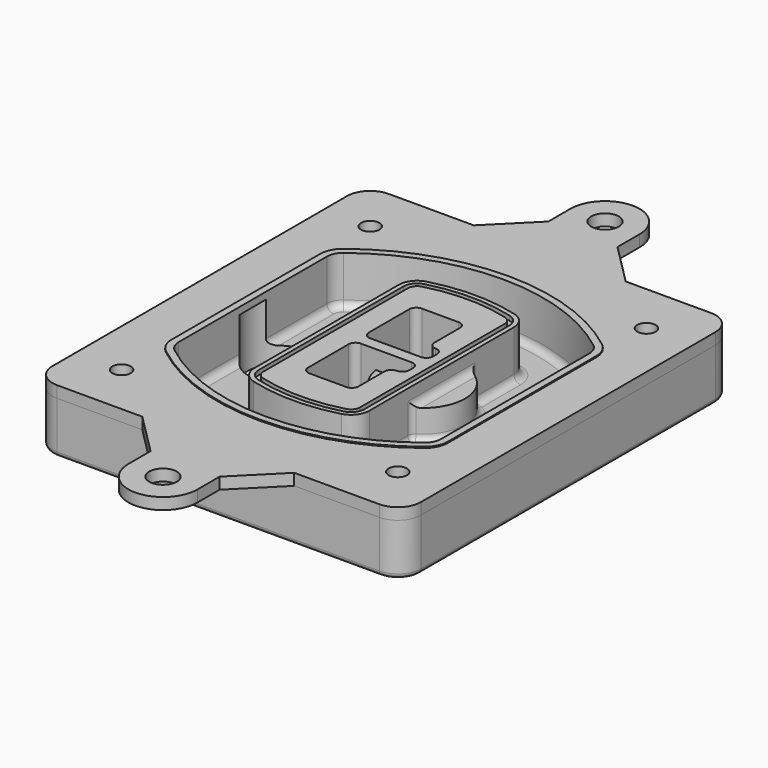
from build123d import *

# Parameters (mm, degrees)
F0_R      = 4
F1_DEPTH  = 25
F2_DEPTH  = 3
F3_DEPTH  = 18
F5_DEPTH  = 21
F6_DEPTH  = 2
F8_DEPTH  = 20
F9_DEPTH  = 16
F10_DEPTH = 25
F7_R      = 6
F7_R_2    = 4
F11_DEPTH = 6
F13_DEPTH = 9
F14_R     = 3
F15_R     = 2
F16_R     = 6
F16_R_2   = 4
F17_DEPTH = 2.5


with BuildPart() as f1:
    # F0 (on Top) → F1 (new body)
    with BuildSketch(Plane.XY):
        with BuildLine():
            ThreePointArc((-80, -80), (-77.0710678119, -87.0710678119), (-70, -90))
            Line((-70, -90), (70, -90))
            ThreePointArc((70, -90), (77.0710678119, -87.0710678119), (80, -80))
            Line((80, -80), (80, 80))
            ThreePointArc((80, 80), (77.0710678119, 87.0710678119), (70, 90))
            Line((70, 90), (-70, 90))
            ThreePointArc((-70, 90), (-77.0710678119, 87.0710678119), (-80, 80))
            Line((-80, 80), (-80, -80))
        make_face()
        with Locations((-60, -67.5)):
            Circle(F0_R, mode=Mode.SUBTRACT)
        with Locations((60, -67.5)):
            Circle(F0_R, mode=Mode.SUBTRACT)
        with Locations((-60, 67.5)):
            Circle(F0_R, mode=Mode.SUBTRACT)
        with BuildLine():
            ThreePointArc((-64, 40.2934422872), (-62.5820384798, 46.4328484224), (-58.6153846154, 51.3286200352))
            ThreePointArc((-58.6153846154, 51.3286200352), (0, 71.5), (58.6153846154, 51.3286200352))
            ThreePointArc((58.6153846154, 51.3286200352), (62.5820384798, 46.4328484224), (64, 40.2934422872))
            Line((64, 40.2934422872), (64, -40.2934422872))
            ThreePointArc((64, -40.2934422872), (62.5820384798, -46.4328484224), (58.6153846154, -51.3286200352))
            ThreePointArc((58.6153846154, -51.3286200352), (0, -71.5), (-58.6153846154, -51.3286200352))
            ThreePointArc((-58.6153846154, -51.3286200352), (-62.5820384798, -46.4328484224), (-64, -40.2934422872))
            Line((-64, -40.2934422872), (-64, 40.2934422872))
        make_face(mode=Mode.SUBTRACT)
        with Locations((60, 67.5)):
            Circle(F0_R, mode=Mode.SUBTRACT)
        with BuildLine():
            ThreePointArc((58.6153846154, 51.3286200352), (0, 71.5), (-58.6153846154, 51.3286200352))
            ThreePointArc((-58.6153846154, 51.3286200352), (-62.5820384798, 46.4328484224), (-64, 40.2934422872))
            Line((-64, 40.2934422872), (-64, -40.2934422872))
            ThreePointArc((-64, -40.2934422872), (-62.5820384798, -46.4328484224), (-58.6153846154, -51.3286200352))
            ThreePointArc((-58.6153846154, -51.3286200352), (0, -71.5), (58.6153846154, -51.3286200352))
            ThreePointArc((58.6153846154, -51.3286200352), (62.5820384798, -46.4328484224), (64, -40.2934422872))
            Line((64, -40.2934422872), (64, 40.2934422872))
            ThreePointArc((64, 40.2934422872), (62.5820384798, 46.4328484224), (58.6153846154, 51.3286200352))
        make_face()
        with BuildLine():
            Line((-60, -40.2934422872), (-60, 40.2934422872))
            ThreePointArc((-60, 40.2934422872), (-58.9871703427, 44.6787323838), (-56.1538461538, 48.1757121072))
            ThreePointArc((-56.1538461538, 48.1757121072), (0, 67.5), (56.1538461538, 48.1757121072))
            ThreePointArc((56.1538461538, 48.1757121072), (58.9871703427, 44.6787323838), (60, 40.2934422872))
            Line((60, 40.2934422872), (60, -40.2934422872))
            ThreePointArc((60, -40.2934422872), (58.9871703427, -44.6787323838), (56.1538461538, -48.1757121072))
            ThreePointArc((56.1538461538, -48.1757121072), (0, -67.5), (-56.1538461538, -48.1757121072))
            ThreePointArc((-56.1538461538, -48.1757121072), (-58.9871703427, -44.6787323838), (-60, -40.2934422872))
        make_face(mode=Mode.SUBTRACT)
        with BuildLine():
            ThreePointArc((-56.1538461538, 48.1757121072), (-58.9871703427, 44.6787323838), (-60, 40.2934422872))
            Line((-60, 40.2934422872), (-60, -40.2934422872))
            ThreePointArc((-60, -40.2934422872), (-58.9871703427, -44.6787323838), (-56.1538461538, -48.1757121072))
            ThreePointArc((-56.1538461538, -48.1757121072), (0, -67.5), (56.1538461538, -48.1757121072))
            ThreePointArc((56.1538461538, -48.1757121072), (58.9871703427, -44.6787323838), (60, -40.2934422872))
            Line((60, -40.2934422872), (60, 40.2934422872))
            ThreePointArc((60, 40.2934422872), (58.9871703427, 44.6787323838), (56.1538461538, 48.1757121072))
            ThreePointArc((56.1538461538, 48.1757121072), (0, 67.5), (-56.1538461538, 48.1757121072))
        make_face()
        with BuildLine():
            ThreePointArc((54.3076923077, 45.8110311612), (56.2910192399, 43.3631453548), (57, 40.2934422872))
            Line((57, 40.2934422872), (57, -40.2934422872))
            ThreePointArc((57, -40.2934422872), (56.2910192399, -43.3631453548), (54.3076923077, -45.8110311612))
            ThreePointArc((54.3076923077, -45.8110311612), (0, -64.5), (-54.3076923077, -45.8110311612))
            ThreePointArc((-54.3076923077, -45.8110311612), (-56.2910192399, -43.3631453548), (-57, -40.2934422872))
            Line((-57, -40.2934422872), (-57, 40.2934422872))
            ThreePointArc((-57, 40.2934422872), (-56.2910192399, 43.3631453548), (-54.3076923077, 45.8110311612))
            ThreePointArc((-54.3076923077, 45.8110311612), (0, 64.5), (54.3076923077, 45.8110311612))
        make_face(mode=Mode.SUBTRACT)
        with BuildLine():
            Line((57, -40.2934422872), (57, 40.2934422872))
            ThreePointArc((57, 40.2934422872), (56.2910192399, 43.3631453548), (54.3076923077, 45.8110311612))
            ThreePointArc((54.3076923077, 45.8110311612), (0, 64.5), (-54.3076923077, 45.8110311612))
            ThreePointArc((-54.3076923077, 45.8110311612), (-56.2910192399, 43.3631453548), (-57, 40.2934422872))
            Line((-57, 40.2934422872), (-57, -40.2934422872))
            ThreePointArc((-57, -40.2934422872), (-56.2910192399, -43.3631453548), (-54.3076923077, -45.8110311612))
            ThreePointArc((-54.3076923077, -45.8110311612), (0, -64.5), (54.3076923077, -45.8110311612))
            ThreePointArc((54.3076923077, -45.8110311612), (56.2910192399, -43.3631453548), (57, -40.2934422872))
        make_face()
    extrude(amount=-F1_DEPTH)

    # F0 (on Top) → F2 (join)
    with BuildSketch(Plane.XY):
        with BuildLine():
            ThreePointArc((-56.1538461538, 48.1757121072), (-58.9871703427, 44.6787323838), (-60, 40.2934422872))
            Line((-60, 40.2934422872), (-60, -40.2934422872))
            ThreePointArc((-60, -40.2934422872), (-58.9871703427, -44.6787323838), (-56.1538461538, -48.1757121072))
            ThreePointArc((-56.1538461538, -48.1757121072), (0, -67.5), (56.1538461538, -48.1757121072))
            ThreePointArc((56.1538461538, -48.1757121072), (58.9871703427, -44.6787323838), (60, -40.2934422872))
            Line((60, -40.2934422872), (60, 40.2934422872))
            ThreePointArc((60, 40.2934422872), (58.9871703427, 44.6787323838), (56.1538461538, 48.1757121072))
            ThreePointArc((56.1538461538, 48.1757121072), (0, 67.5), (-56.1538461538, 48.1757121072))
        make_face()
        with BuildLine():
            ThreePointArc((54.3076923077, 45.8110311612), (56.2910192399, 43.3631453548), (57, 40.2934422872))
            Line((57, 40.2934422872), (57, -40.2934422872))
            ThreePointArc((57, -40.2934422872), (56.2910192399, -43.3631453548), (54.3076923077, -45.8110311612))
            ThreePointArc((54.3076923077, -45.8110311612), (0, -64.5), (-54.3076923077, -45.8110311612))
            ThreePointArc((-54.3076923077, -45.8110311612), (-56.2910192399, -43.3631453548), (-57, -40.2934422872))
            Line((-57, -40.2934422872), (-57, 40.2934422872))
            ThreePointArc((-57, 40.2934422872), (-56.2910192399, 43.3631453548), (-54.3076923077, 45.8110311612))
            ThreePointArc((-54.3076923077, 45.8110311612), (0, 64.5), (54.3076923077, 45.8110311612))
        make_face(mode=Mode.SUBTRACT)
    extrude(amount=F2_DEPTH)

    # F0 (on Top) → F3 (cut)
    with BuildSketch(Plane.XY):
        with BuildLine():
            Line((57, -40.2934422872), (57, 40.2934422872))
            ThreePointArc((57, 40.2934422872), (56.2910192399, 43.3631453548), (54.3076923077, 45.8110311612))
            ThreePointArc((54.3076923077, 45.8110311612), (0, 64.5), (-54.3076923077, 45.8110311612))
            ThreePointArc((-54.3076923077, 45.8110311612), (-56.2910192399, 43.3631453548), (-57, 40.2934422872))
            Line((-57, 40.2934422872), (-57, -40.2934422872))
            ThreePointArc((-57, -40.2934422872), (-56.2910192399, -43.3631453548), (-54.3076923077, -45.8110311612))
            ThreePointArc((-54.3076923077, -45.8110311612), (0, -64.5), (54.3076923077, -45.8110311612))
            ThreePointArc((54.3076923077, -45.8110311612), (56.2910192399, -43.3631453548), (57, -40.2934422872))
        make_face()
    extrude(amount=-F3_DEPTH, mode=Mode.SUBTRACT)

    # F4 (on face) → F5 (join, through all)
    with BuildSketch(Plane.XY.offset(3)):
        with BuildLine():
            ThreePointArc((-25, -39.2465276821), (-23.3511545998, -44.1109737193), (-19.0842911877, -46.9702398883))
            ThreePointArc((-19.0842911877, -46.9702398883), (0, -49.5), (19.0842911877, -46.9702398883))
            ThreePointArc((19.0842911877, -46.9702398883), (23.3511545998, -44.1109737193), (25, -39.2465276821))
            Line((25, -39.2465276821), (25, 39.2465276821))
            ThreePointArc((25, 39.2465276821), (23.3511545998, 44.1109737193), (19.0842911877, 46.9702398883))
            ThreePointArc((19.0842911877, 46.9702398883), (0, 49.5), (-19.0842911877, 46.9702398883))
            ThreePointArc((-19.0842911877, 46.9702398883), (-23.3511545998, 44.1109737193), (-25, 39.2465276821))
            Line((-25, 39.2465276821), (-25, -39.2465276821))
        make_face()
        with BuildLine():
            ThreePointArc((18.5632183908, 45.0393118368), (21.7633659499, 42.89486221), (23, 39.2465276821))
            Line((23, 39.2465276821), (23, -39.2465276821))
            ThreePointArc((23, -39.2465276821), (21.7633659499, -42.89486221), (18.5632183908, -45.0393118368))
            ThreePointArc((18.5632183908, -45.0393118368), (0, -47.5), (-18.5632183908, -45.0393118368))
            ThreePointArc((-18.5632183908, -45.0393118368), (-21.7633659499, -42.89486221), (-23, -39.2465276821))
            Line((-23, -39.2465276821), (-23, 39.2465276821))
            ThreePointArc((-23, 39.2465276821), (-21.7633659499, 42.89486221), (-18.5632183908, 45.0393118368))
            ThreePointArc((-18.5632183908, 45.0393118368), (0, 47.5), (18.5632183908, 45.0393118368))
        make_face(mode=Mode.SUBTRACT)
        with BuildLine():
            Line((23, -39.2465276821), (23, 39.2465276821))
            ThreePointArc((23, 39.2465276821), (21.7633659499, 42.89486221), (18.5632183908, 45.0393118368))
            ThreePointArc((18.5632183908, 45.0393118368), (0, 47.5), (-18.5632183908, 45.0393118368))
            ThreePointArc((-18.5632183908, 45.0393118368), (-21.7633659499, 42.89486221), (-23, 39.2465276821))
            Line((-23, 39.2465276821), (-23, -39.2465276821))
            ThreePointArc((-23, -39.2465276821), (-21.7633659499, -42.89486221), (-18.5632183908, -45.0393118368))
            ThreePointArc((-18.5632183908, -45.0393118368), (0, -47.5), (18.5632183908, -45.0393118368))
            ThreePointArc((18.5632183908, -45.0393118368), (21.7633659499, -42.89486221), (23, -39.2465276821))
        make_face()
        with BuildLine():
            ThreePointArc((18.0421455939, 43.1083837852), (20.1755772999, 41.6787507007), (21, 39.2465276821))
            Line((21, 39.2465276821), (21, -39.2465276821))
            ThreePointArc((21, -39.2465276821), (20.1755772999, -41.6787507007), (18.0421455939, -43.1083837852))
            ThreePointArc((18.0421455939, -43.1083837852), (0, -45.5), (-18.0421455939, -43.1083837852))
            ThreePointArc((-18.0421455939, -43.1083837852), (-20.1755772999, -41.6787507007), (-21, -39.2465276821))
            Line((-21, -39.2465276821), (-21, 39.2465276821))
            ThreePointArc((-21, 39.2465276821), (-20.1755772999, 41.6787507007), (-18.0421455939, 43.1083837852))
            ThreePointArc((-18.0421455939, 43.1083837852), (0, 45.5), (18.0421455939, 43.1083837852))
        make_face(mode=Mode.SUBTRACT)
        with BuildLine():
            Line((21, -39.2465276821), (21, 39.2465276821))
            ThreePointArc((21, 39.2465276821), (20.1755772999, 41.6787507007), (18.0421455939, 43.1083837852))
            ThreePointArc((18.0421455939, 43.1083837852), (0, 45.5), (-18.0421455939, 43.1083837852))
            ThreePointArc((-18.0421455939, 43.1083837852), (-20.1755772999, 41.6787507007), (-21, 39.2465276821))
            Line((-21, 39.2465276821), (-21, -39.2465276821))
            ThreePointArc((-21, -39.2465276821), (-20.1755772999, -41.6787507007), (-18.0421455939, -43.1083837852))
            ThreePointArc((-18.0421455939, -43.1083837852), (0, -45.5), (18.0421455939, -43.1083837852))
            ThreePointArc((18.0421455939, -43.1083837852), (20.1755772999, -41.6787507007), (21, -39.2465276821))
        make_face()
        with BuildLine():
            Line((-8, -2.5), (14, -2.5))
            ThreePointArc((14, -2.5), (16.1213203436, -3.3786796564), (17, -5.5))
            Line((17, -5.5), (17, -7.5))
            ThreePointArc((17, -7.5), (16.1213203436, -9.6213203436), (14, -10.5))
            ThreePointArc((14, -10.5), (11.8786796564, -11.3786796564), (11, -13.5))
            Line((11, -13.5), (11, -27.5))
            ThreePointArc((11, -27.5), (10.1213203436, -29.6213203436), (8, -30.5))
            Line((8, -30.5), (-8, -30.5))
            ThreePointArc((-8, -30.5), (-10.1213203436, -29.6213203436), (-11, -27.5))
            Line((-11, -27.5), (-11, -5.5))
            ThreePointArc((-11, -5.5), (-10.1213203436, -3.3786796564), (-8, -2.5))
        make_face(mode=Mode.SUBTRACT)
        with BuildLine():
            ThreePointArc((-8, 2.5), (-10.1213203436, 3.3786796564), (-11, 5.5))
            Line((-11, 5.5), (-11, 27.5))
            ThreePointArc((-11, 27.5), (-10.1213203436, 29.6213203436), (-8, 30.5))
            Line((-8, 30.5), (8, 30.5))
            ThreePointArc((8, 30.5), (10.1213203436, 29.6213203436), (11, 27.5))
            Line((11, 27.5), (11, 13.5))
            ThreePointArc((11, 13.5), (11.8786796564, 11.3786796564), (14, 10.5))
            ThreePointArc((14, 10.5), (16.1213203436, 9.6213203436), (17, 7.5))
            Line((17, 7.5), (17, 5.5))
            ThreePointArc((17, 5.5), (16.1213203436, 3.3786796564), (14, 2.5))
            Line((14, 2.5), (-8, 2.5))
        make_face(mode=Mode.SUBTRACT)
    extrude(amount=-F5_DEPTH)

    # F4 (on face) → F6 (cut)
    with BuildSketch(Plane.XY.offset(3)):
        with BuildLine():
            Line((23, -39.2465276821), (23, 39.2465276821))
            ThreePointArc((23, 39.2465276821), (21.7633659499, 42.89486221), (18.5632183908, 45.0393118368))
            ThreePointArc((18.5632183908, 45.0393118368), (0, 47.5), (-18.5632183908, 45.0393118368))
            ThreePointArc((-18.5632183908, 45.0393118368), (-21.7633659499, 42.89486221), (-23, 39.2465276821))
            Line((-23, 39.2465276821), (-23, -39.2465276821))
            ThreePointArc((-23, -39.2465276821), (-21.7633659499, -42.89486221), (-18.5632183908, -45.0393118368))
            ThreePointArc((-18.5632183908, -45.0393118368), (0, -47.5), (18.5632183908, -45.0393118368))
            ThreePointArc((18.5632183908, -45.0393118368), (21.7633659499, -42.89486221), (23, -39.2465276821))
        make_face()
        with BuildLine():
            ThreePointArc((18.0421455939, 43.1083837852), (20.1755772999, 41.6787507007), (21, 39.2465276821))
            Line((21, 39.2465276821), (21, -39.2465276821))
            ThreePointArc((21, -39.2465276821), (20.1755772999, -41.6787507007), (18.0421455939, -43.1083837852))
            ThreePointArc((18.0421455939, -43.1083837852), (0, -45.5), (-18.0421455939, -43.1083837852))
            ThreePointArc((-18.0421455939, -43.1083837852), (-20.1755772999, -41.6787507007), (-21, -39.2465276821))
            Line((-21, -39.2465276821), (-21, 39.2465276821))
            ThreePointArc((-21, 39.2465276821), (-20.1755772999, 41.6787507007), (-18.0421455939, 43.1083837852))
            ThreePointArc((-18.0421455939, 43.1083837852), (0, 45.5), (18.0421455939, 43.1083837852))
        make_face(mode=Mode.SUBTRACT)
    extrude(amount=-F6_DEPTH, mode=Mode.SUBTRACT)

    # F7 (on face) → F8 (join)
    with BuildSketch(Plane(origin=(0, 0, -25), x_dir=(1, 0, 0), z_dir=(0, 0, -1))):
        with BuildLine():
            ThreePointArc((3.28842436, 0), (16.7567035675, 13.4682792075), (30.224982775, 0))
            Line((30.224982775, 0), (35.224982775, 0))
            ThreePointArc((35.224982775, 0), (16.7567035675, 18.4682792075), (-1.71157564, 0))
            Line((-1.71157564, 0), (3.28842436, 0))
        make_face()
        with BuildLine():
            Line((3.28842436, 0), (30.224982775, 0))
            ThreePointArc((30.224982775, 0), (16.7567035675, 13.4682792075), (3.28842436, 0))
        make_face()
        with BuildLine():
            ThreePointArc((3.28842436, 0), (16.7567035675, -13.4682792075), (30.224982775, 0))
            Line((30.224982775, 0), (3.28842436, 0))
        make_face()
        with BuildLine():
            Line((35.224982775, 0), (30.224982775, 0))
            ThreePointArc((30.224982775, 0), (16.7567035675, -13.4682792075), (3.28842436, 0))
            Line((3.28842436, 0), (-1.71157564, 0))
            ThreePointArc((-1.71157564, 0), (16.7567035675, -18.4682792075), (35.224982775, 0))
        make_face()
    extrude(amount=-F8_DEPTH)

    # F7 (on face) → F9 (cut)
    with BuildSketch(Plane(origin=(0, 0, -25), x_dir=(1, 0, 0), z_dir=(0, 0, -1))):
        with BuildLine():
            Line((3.28842436, 0), (30.224982775, 0))
            ThreePointArc((30.224982775, 0), (16.7567035675, 13.4682792075), (3.28842436, 0))
        make_face()
        with BuildLine():
            ThreePointArc((3.28842436, 0), (16.7567035675, -13.4682792075), (30.224982775, 0))
            Line((30.224982775, 0), (3.28842436, 0))
        make_face()
    extrude(amount=-F9_DEPTH, mode=Mode.SUBTRACT)

    # F7 (on face) → F10 (cut)
    with BuildSketch(Plane(origin=(0, 0, -25), x_dir=(1, 0, 0), z_dir=(0, 0, -1))):
        with BuildLine():
            Line((-59.0318229325, 0), (-32.0952645175, 0))
            ThreePointArc((-32.0952645175, 0), (-45.563543725, 13.4682792075), (-59.0318229325, 0))
        make_face()
        with BuildLine():
            ThreePointArc((-59.0318229325, 0), (-45.563543725, -13.4682792075), (-32.0952645175, 0))
            Line((-32.0952645175, 0), (-59.0318229325, 0))
        make_face()
    extrude(amount=-F10_DEPTH, mode=Mode.SUBTRACT)

    # F7 (on face) → F11 (cut)
    with BuildSketch(Plane(origin=(0, 0, -25), x_dir=(1, 0, 0), z_dir=(0, 0, -1))):
        with Locations((60, -67.5)):
            Circle(F7_R)
        with Locations((60, -67.5)):
            Circle(F7_R_2, mode=Mode.SUBTRACT)
        with Locations((60, -67.5)):
            Circle(F7_R)
        with Locations((60, -67.5)):
            Circle(F7_R_2, mode=Mode.SUBTRACT)
        with Locations((-60, -67.5)):
            Circle(F7_R)
        with Locations((-60, -67.5)):
            Circle(F7_R_2, mode=Mode.SUBTRACT)
        with Locations((-60, -67.5)):
            Circle(F7_R)
        with Locations((-60, -67.5)):
            Circle(F7_R_2, mode=Mode.SUBTRACT)
        with Locations((-60, 67.5)):
            Circle(F7_R)
        with Locations((-60, 67.5)):
            Circle(F7_R_2, mode=Mode.SUBTRACT)
        with Locations((-60, 67.5)):
            Circle(F7_R)
        with Locations((-60, 67.5)):
            Circle(F7_R_2, mode=Mode.SUBTRACT)
        with Locations((60, 67.5)):
            Circle(F7_R)
        with Locations((60, 67.5)):
            Circle(F7_R_2, mode=Mode.SUBTRACT)
        with Locations((60, 67.5)):
            Circle(F7_R)
        with Locations((60, 67.5)):
            Circle(F7_R_2, mode=Mode.SUBTRACT)
    extrude(amount=-F11_DEPTH, mode=Mode.SUBTRACT)

    # F12 (on face) → F13 (cut, through all)
    with BuildSketch(Plane(origin=(0, 0, -9), x_dir=(1, 0, 0), z_dir=(0, 0, -1))):
        with BuildLine():
            Line((11, 13.5), (11, 17.5481537753))
            ThreePointArc((11, 17.5481537753), (2.5696536419, 11.8239143813), (-1.5415842455, 2.5))
            Line((-1.5415842455, 2.5), (3.5224848595, 2.5))
            ThreePointArc((3.5224848595, 2.5), (6.1857188154, 8.3455872281), (11.2536447004, 12.2927168648))
            ThreePointArc((11.2536447004, 12.2927168648), (11.0640958889, 12.8831798879), (11, 13.5))
        make_face()
        with BuildLine():
            ThreePointArc((11.2536447004, -12.2927168648), (6.1857188154, -8.3455872281), (3.5224848595, -2.5))
            Line((3.5224848595, -2.5), (-1.5415842455, -2.5))
            ThreePointArc((-1.5415842455, -2.5), (2.5696536419, -11.8239143813), (11, -17.5481537753))
            Line((11, -17.5481537753), (11, -13.5))
            ThreePointArc((11, -13.5), (11.0640958889, -12.8831798879), (11.2536447004, -12.2927168648))
        make_face()
        with BuildLine():
            ThreePointArc((11.2536447004, 12.2927168648), (6.1857188154, 8.3455872281), (3.5224848595, 2.5))
            Line((3.5224848595, 2.5), (14, 2.5))
            ThreePointArc((14, 2.5), (16.1213203436, 3.3786796564), (17, 5.5))
            Line((17, 5.5), (17, 7.5))
            ThreePointArc((17, 7.5), (16.1213203436, 9.6213203436), (14, 10.5))
            ThreePointArc((14, 10.5), (12.3601599782, 10.9878446101), (11.2536447004, 12.2927168648))
        make_face()
        with BuildLine():
            Line((14, -2.5), (3.5224848595, -2.5))
            ThreePointArc((3.5224848595, -2.5), (6.1857188154, -8.3455872281), (11.2536447004, -12.2927168648))
            ThreePointArc((11.2536447004, -12.2927168648), (12.3601599782, -10.9878446101), (14, -10.5))
            ThreePointArc((14, -10.5), (16.1213203436, -9.6213203436), (17, -7.5))
            Line((17, -7.5), (17, -5.5))
            ThreePointArc((17, -5.5), (16.1213203436, -3.3786796564), (14, -2.5))
        make_face()
    extrude(amount=F13_DEPTH, mode=Mode.SUBTRACT)

    # F14
    f14_edges = [f1.edges().sort_by_distance(p)[0] for p in [
        (-57, -23.703476, -18),
        (-57, 23.703476, -18),
        (25, 0, -5),
        (25, 16.526506, -11.5),
        (25, -16.526506, -11.5),
        (25, -27.886517, -18),
        (35.224983, 0, -18),
    ]]
    fillet(f14_edges, radius=F14_R)

    # F15
    f15_edges = [f1.edges().sort_by_distance(p)[0] for p in [
        (0, -90, -25),
    ]]
    fillet(f15_edges, radius=F15_R)


with BuildPart() as f17:
    # F16 (on face) → F17 (new body, symmetric)
    with BuildSketch(Plane.XY):
        with BuildLine():
            Line((15, 108), (15, 120))
            ThreePointArc((15, 120), (0, 135), (-15, 120))
            Line((-15, 120), (-15, 108))
            Line((-15, 108), (-33, 90))
            Line((-33, 90), (33, 90))
            Line((33, 90), (15, 108))
        make_face()
        with Locations((0, 120)):
            Circle(F16_R, mode=Mode.SUBTRACT)
        with BuildLine():
            Line((70, 90), (33, 90))
            Line((33, 90), (-33, 90))
            Line((-33, 90), (-70, 90))
            ThreePointArc((-70, 90), (-77.0710678119, 87.0710678119), (-80, 80))
            Line((-80, 80), (-80, -80))
            ThreePointArc((-80, -80), (-77.0710678119, -87.0710678119), (-70, -90))
            Line((-70, -90), (-33, -90))
            Line((-33, -90), (33, -90))
            Line((33, -90), (70, -90))
            ThreePointArc((70, -90), (77.0710678119, -87.0710678119), (80, -80))
            Line((80, -80), (80, 80))
            ThreePointArc((80, 80), (77.0710678119, 87.0710678119), (70, 90))
        make_face()
        with Locations((-60, -67.5)):
            Circle(F16_R_2, mode=Mode.SUBTRACT)
        with Locations((60, -67.5)):
            Circle(F16_R_2, mode=Mode.SUBTRACT)
        with Locations((-60, 67.5)):
            Circle(F16_R_2, mode=Mode.SUBTRACT)
        with BuildLine():
            ThreePointArc((-60, 40.2934422872), (-58.9871703427, 44.6787323838), (-56.1538461538, 48.1757121072))
            ThreePointArc((-56.1538461538, 48.1757121072), (0, 67.5), (56.1538461538, 48.1757121072))
            ThreePointArc((56.1538461538, 48.1757121072), (58.9871703427, 44.6787323838), (60, 40.2934422872))
            Line((60, 40.2934422872), (60, -40.2934422872))
            ThreePointArc((60, -40.2934422872), (58.9871703427, -44.6787323838), (56.1538461538, -48.1757121072))
            ThreePointArc((56.1538461538, -48.1757121072), (0, -67.5), (-56.1538461538, -48.1757121072))
            ThreePointArc((-56.1538461538, -48.1757121072), (-58.9871703427, -44.6787323838), (-60, -40.2934422872))
            Line((-60, -40.2934422872), (-60, 40.2934422872))
        make_face(mode=Mode.SUBTRACT)
        with Locations((60, 67.5)):
            Circle(F16_R_2, mode=Mode.SUBTRACT)
        with BuildLine():
            Line((15, -108), (33, -90))
            Line((33, -90), (-33, -90))
            Line((-33, -90), (-15, -108))
            Line((-15, -108), (-15, -120))
            ThreePointArc((-15, -120), (0, -135), (15, -120))
            Line((15, -120), (15, -108))
        make_face()
        with Locations((0, -120)):
            Circle(F16_R, mode=Mode.SUBTRACT)
    extrude(amount=F17_DEPTH, both=True)


solid = Compound([f1.part, f17.part])
